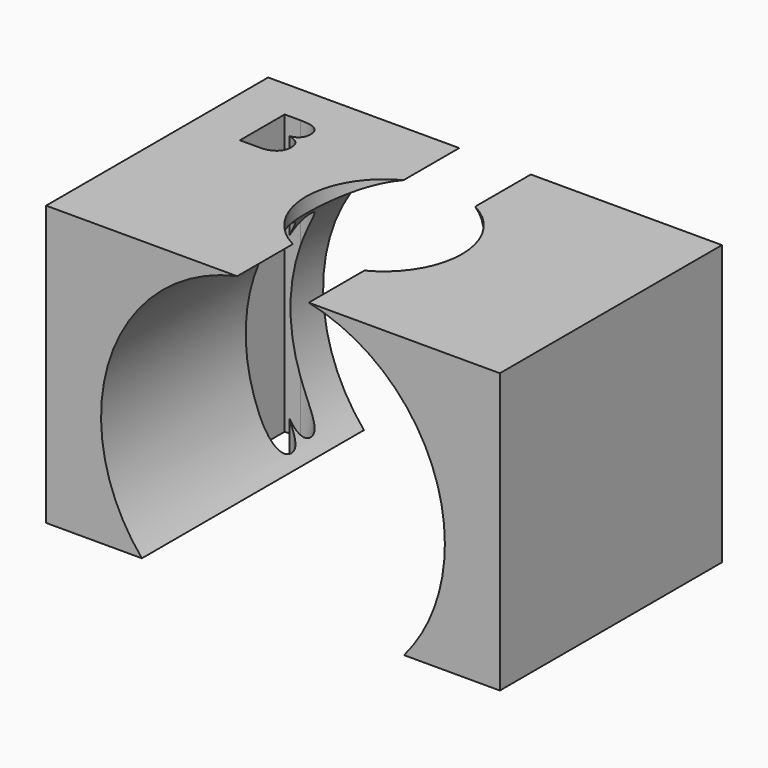
from build123d import *

# Parameters (mm, degrees)
F0_W     = 82.5234055519
F0_H     = 50.4775159061
F0_R     = 14.1766268271
F1_DEPTH = 25.4
F2_W     = 82.5234055519
F2_H     = 50.4775159061
F2_R     = 14.1766268271
F3_DEPTH = 25.4
F5_DEPTH = 68.072


with BuildPart() as f1:
    # F0 (on Top) → F1 (new body)
    with BuildSketch(Plane.XY):
        Rectangle(F0_W, F0_H)
        with BuildLine():
            Line((-32.3227967278, 7.6449345797), (-32.3227967278, 17.8211357318))
            Line((-32.3227967278, 17.8211357318), (-29.4474463913, 17.8211357318))
            add(Edge.make_bspline(
                [(-29.4474463913, 17.8211357318), (-27.4228968515, 17.8211357318), (-26.517528988, 17.215329929)],
                knots=[0, 0, 0, 1, 1, 1], degree=2))
            add(Edge.make_bspline(
                [(-26.517528988, 17.215329929), (-25.6121611245, 16.6095241261), (-25.6121611245, 15.30214175)],
                knots=[0, 0, 0, 1, 1, 1], degree=2))
            add(Edge.make_bspline(
                [(-25.6121611245, 15.30214175), (-25.6121611245, 14.3956602729), (-26.1166280891, 13.8076722877)],
                knots=[0, 0, 0, 1, 1, 1], degree=2))
            add(Edge.make_bspline(
                [(-26.1166280891, 13.8076722877), (-26.6210950536, 13.2196843026), (-27.5899388928, 13.0459605797)],
                knots=[0, 0, 0, 1, 1, 1], degree=2))
            Line((-27.5899388928, 13.0459605797), (-27.5899388928, 12.976916536))
            add(Edge.make_bspline(
                [(-27.5899388928, 12.976916536), (-25.2713953604, 12.5804700915), (-25.2713953604, 10.5403299612)],
                knots=[0, 0, 0, 1, 1, 1], degree=2))
            add(Edge.make_bspline(
                [(-25.2713953604, 10.5403299612), (-25.2713953604, 9.1772669047), (-26.193467428, 8.4111007422)],
                knots=[0, 0, 0, 1, 1, 1], degree=2))
            add(Edge.make_bspline(
                [(-26.193467428, 8.4111007422), (-27.1155394957, 7.6449345797), (-28.7725965447, 7.6449345797)],
                knots=[0, 0, 0, 1, 1, 1], degree=2))
            Line((-28.7725965447, 7.6449345797), (-32.3227967278, 7.6449345797))
        make_face(mode=Mode.SUBTRACT)
        Circle(F0_R, mode=Mode.SUBTRACT)
    extrude(amount=F1_DEPTH)

    # F2 (on face) → F3 (join)
    with BuildSketch(Plane.XY.offset(25.4)):
        Rectangle(F2_W, F2_H)
        with BuildLine():
            Line((-28.7725965447, 7.6449345797), (-32.3227967278, 7.6449345797))
            Line((-32.3227967278, 7.6449345797), (-32.3227967278, 17.8211357318))
            Line((-32.3227967278, 17.8211357318), (-29.4474463913, 17.8211357318))
            add(Edge.make_bspline(
                [(-29.4474463913, 17.8211357318), (-27.4228968515, 17.8211357318), (-26.517528988, 17.215329929)],
                knots=[0, 0, 0, 1, 1, 1], degree=2))
            add(Edge.make_bspline(
                [(-26.517528988, 17.215329929), (-25.6121611245, 16.6095241261), (-25.6121611245, 15.30214175)],
                knots=[0, 0, 0, 1, 1, 1], degree=2))
            add(Edge.make_bspline(
                [(-25.6121611245, 15.30214175), (-25.6121611245, 14.3956602729), (-26.1166280891, 13.8076722877)],
                knots=[0, 0, 0, 1, 1, 1], degree=2))
            add(Edge.make_bspline(
                [(-26.1166280891, 13.8076722877), (-26.6210950536, 13.2196843026), (-27.5899388928, 13.0459605797)],
                knots=[0, 0, 0, 1, 1, 1], degree=2))
            Line((-27.5899388928, 13.0459605797), (-27.5899388928, 12.976916536))
            add(Edge.make_bspline(
                [(-27.5899388928, 12.976916536), (-25.2713953604, 12.5804700915), (-25.2713953604, 10.5403299612)],
                knots=[0, 0, 0, 1, 1, 1], degree=2))
            add(Edge.make_bspline(
                [(-25.2713953604, 10.5403299612), (-25.2713953604, 9.1772669047), (-26.193467428, 8.4111007422)],
                knots=[0, 0, 0, 1, 1, 1], degree=2))
            add(Edge.make_bspline(
                [(-26.193467428, 8.4111007422), (-27.1155394957, 7.6449345797), (-28.7725965447, 7.6449345797)],
                knots=[0, 0, 0, 1, 1, 1], degree=2))
        make_face(mode=Mode.SUBTRACT)
        Circle(F2_R, mode=Mode.SUBTRACT)
    extrude(amount=F3_DEPTH)

    # F4 (on face) → F5 (cut)
    with BuildSketch(Plane.XZ.offset(25.238757953)):
        with BuildLine():
            Line((-6.5062351096, 50.8), (6.5062351096, 50.8))
            ThreePointArc((6.5062351096, 50.8), (0, 51.4845386637), (-6.5062351096, 50.8))
        make_face()
        with BuildLine():
            ThreePointArc((23.8396931421, 0), (29.3476017907, 9.451933902), (31.261702776, 20.2228358877))
            ThreePointArc((31.261702776, 20.2228358877), (24.2970167782, 39.8938560985), (6.5062351096, 50.8))
            Line((6.5062351096, 50.8), (-6.5062351096, 50.8))
            ThreePointArc((-6.5062351096, 50.8), (-29.5868017935, 30.3181427224), (-23.8396931421, 0))
            Line((-23.8396931421, 0), (23.8396931421, 0))
        make_face()
    extrude(amount=-F5_DEPTH, mode=Mode.SUBTRACT)


solid = f1.part
